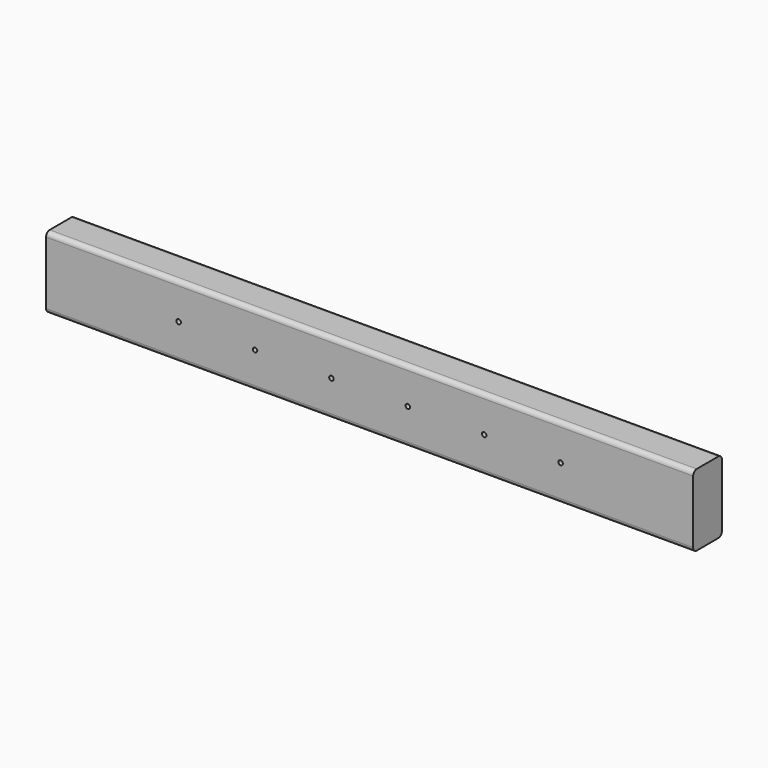
from build123d import *

# Parameters (mm, degrees)
F0_W     = 50.8
F0_H     = 101.6
F1_DEPTH = 457.2
F2_R     = 6.35
F3_R     = 3.175
F4_DEPTH = 50.8


with BuildPart() as f1:
    # F0 (on Right) → F1 (new body, symmetric)
    with BuildSketch(Plane.YZ):
        Rectangle(F0_W, F0_H)
    extrude(amount=F1_DEPTH, both=True)

    # F2
    f2_edges = [f1.edges().sort_by_distance(p)[0] for p in [
        (0, -25.4, -50.8),
        (0, 25.4, -50.8),
        (0, -25.4, 50.8),
        (0, 25.4, 50.8),
    ]]
    fillet(f2_edges, radius=F2_R)

    # F3 (on face) → F4 (cut, through all)
    with BuildSketch(Plane.XZ.offset(25.4)):
        with Locations((-269.875, 0)):
            Circle(F3_R)
        with Locations((-161.925, 0)):
            Circle(F3_R)
        with Locations((-53.975, 0)):
            Circle(F3_R)
        with Locations((53.975, 0)):
            Circle(F3_R)
        with Locations((161.925, 0)):
            Circle(F3_R)
        with Locations((269.875, 0)):
            Circle(F3_R)
    extrude(amount=-F4_DEPTH, mode=Mode.SUBTRACT)


solid = f1.part
